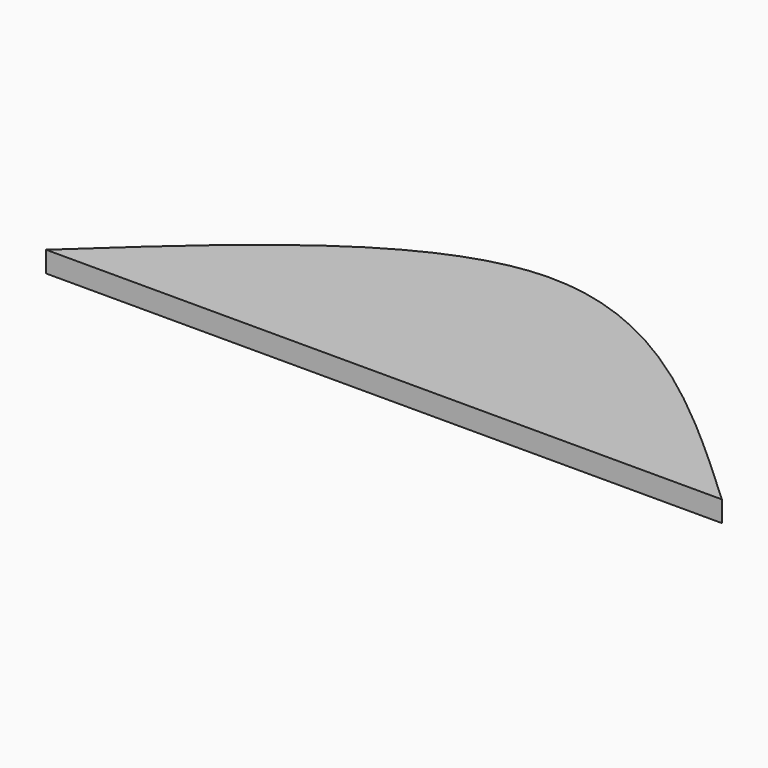
from build123d import *

# Parameters (mm, degrees)
F1_DEPTH = 1.5


with BuildPart() as f1:
    # F0 (on Top) → F1 (new body, symmetric)
    with BuildSketch(Plane.XY):
        with BuildLine():
            add(Edge.make_bspline(
                [(-48.5, 0), (-32.333333, 15), (0, 45), (32.333333, 15), (48.5, 0)],
                knots=[0, 0, 0, 0, 57.028502, 114.057003, 114.057003, 114.057003, 114.057003], degree=3))
            Line((-48.5, 0), (-44.075998, 0))
            add(Edge.make_bspline(
                [(-44.075998, 0), (-43.522162, 0.51569), (-40.967805, 2.906609), (-35.91494, 7.698653), (-29.252167, 13.25981), (-22.709684, 18.266104), (-17.215289, 21.837521), (-12.370762, 24.258906), (-8.552276, 25.629944), (-5.611032, 26.447713), (-3.312555, 26.828796), (-1.498771, 26.978399), (0, 27.027697), (1.498771, 26.978399), (3.312555, 26.828796), (5.611032, 26.447713), (8.552276, 25.629944), (12.370762, 24.258906), (17.215289, 21.837521), (22.709684, 18.266104), (29.252167, 13.25981), (35.91494, 7.698653), (40.967805, 2.906609), (43.522162, 0.51569), (44.075998, 0)],
                knots=[3.243264, 3.243264, 3.243264, 3.243264, 5.513399, 13.738339, 24.131091, 31.53053, 38.445023, 43.757513, 47.73583, 50.599934, 52.904182, 54.712969, 56.056773, 57.400578, 59.209365, 61.513612, 64.377717, 68.356034, 73.668524, 80.583017, 87.982455, 98.375208, 106.600147, 108.870282, 108.870282, 108.870282, 108.870282], degree=3))
            Line((44.075998, 0), (48.5, 0))
        make_face()
        with BuildLine():
            add(Edge.make_bspline(
                [(-44.075998, 0), (-43.522162, 0.51569), (-40.967805, 2.906609), (-35.91494, 7.698653), (-29.252167, 13.25981), (-22.709684, 18.266104), (-17.215289, 21.837521), (-12.370762, 24.258906), (-8.552276, 25.629944), (-5.611032, 26.447713), (-3.312555, 26.828796), (-1.498771, 26.978399), (0, 27.027697), (1.498771, 26.978399), (3.312555, 26.828796), (5.611032, 26.447713), (8.552276, 25.629944), (12.370762, 24.258906), (17.215289, 21.837521), (22.709684, 18.266104), (29.252167, 13.25981), (35.91494, 7.698653), (40.967805, 2.906609), (43.522162, 0.51569), (44.075998, 0)],
                knots=[3.243264, 3.243264, 3.243264, 3.243264, 5.513399, 13.738339, 24.131091, 31.53053, 38.445023, 43.757513, 47.73583, 50.599934, 52.904182, 54.712969, 56.056773, 57.400578, 59.209365, 61.513612, 64.377717, 68.356034, 73.668524, 80.583017, 87.982455, 98.375208, 106.600147, 108.870282, 108.870282, 108.870282, 108.870282], degree=3))
            Line((-44.075998, 0), (44.075998, 0))
        make_face()
    extrude(amount=F1_DEPTH, both=True)


solid = f1.part
